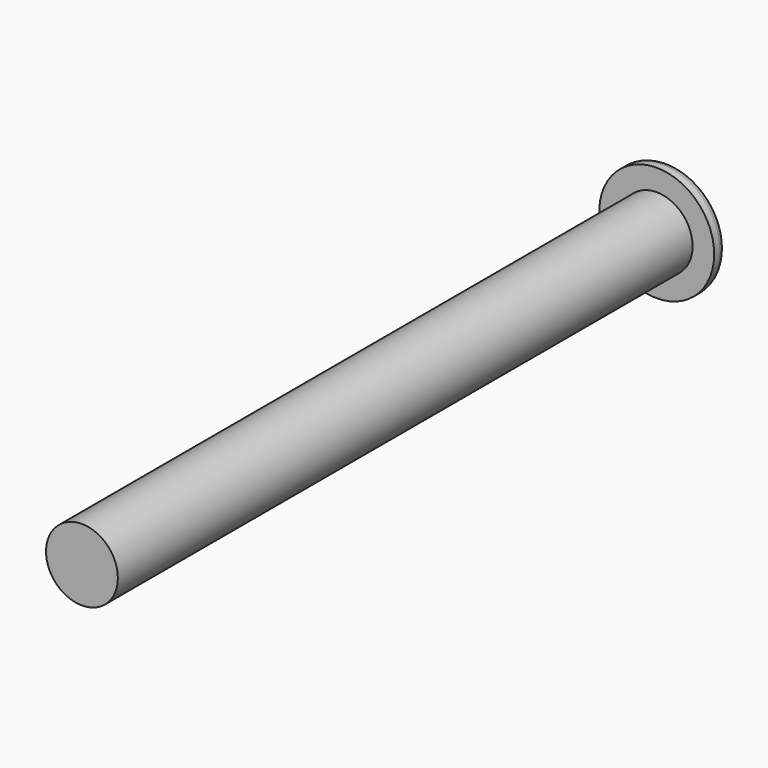
from build123d import *

# Parameters (mm, degrees)
F0_R     = 0.4
F1_DEPTH = 0.1
F2_R     = 0.05
F3_R     = 0.25
F4_DEPTH = 5


with BuildPart() as f1:
    # F0 (on Front) → F1 (new body)
    with BuildSketch(Plane.XZ):
        Circle(F0_R)
    extrude(amount=-F1_DEPTH)

    # F2
    f2_edges = [f1.edges().sort_by_distance(p)[0] for p in [
        (-0.4, 0.1, 0),
    ]]
    fillet(f2_edges, radius=F2_R)

    # F3 (on face) → F4 (join)
    with BuildSketch(Plane.XZ):
        Circle(F3_R)
    extrude(amount=F4_DEPTH)


solid = f1.part
